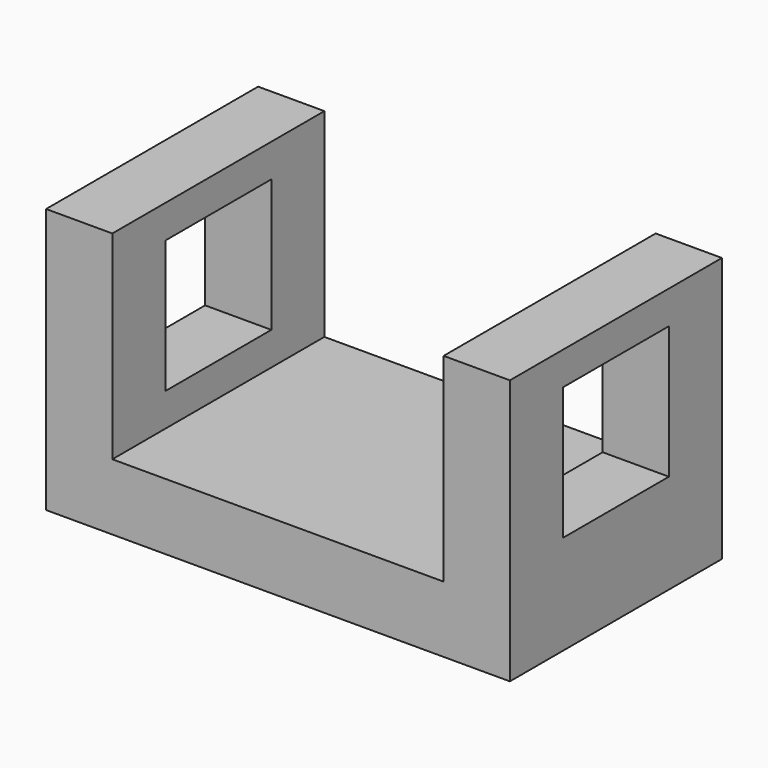
from build123d import *

# Parameters (mm, degrees)
F1_DEPTH = 50.8
F3_DEPTH = 12.7
F5_DEPTH = 12.7


with BuildPart() as f1:
    # F0 (on Front) → F1 (new body)
    with BuildSketch(Plane.XZ):
        Polygon((0, 24.168764), (-12.7, 24.168764), (-12.7, -13.931236), (-76.2, -13.931236), (-76.2, 24.168764), (-88.9, 24.168764), (-88.9, -26.631236), (0, -26.631236), align=None)
    extrude(amount=F1_DEPTH)

    # F2 (on face) → F3 (cut)
    with BuildSketch(Plane.YZ):
        Polygon((-12.7, 17.818764), (-38.1, 17.818764), (-38.1, -7.581236), (-27.879171, -7.581236), (-12.7, -7.581236), (-12.7, 5.118764), align=None)
    extrude(amount=-F3_DEPTH, mode=Mode.SUBTRACT)

    # F4 (on face) → F5 (cut)
    with BuildSketch(Plane(origin=(-88.9, 0, 0), x_dir=(0, -1, 0), z_dir=(-1, 0, 0))):
        Polygon((38.1, 17.818764), (12.7, 17.818764), (12.7, -7.581236), (25.4, -7.581236), (38.1, -7.581236), (38.1, 5.118764), align=None)
    extrude(amount=-F5_DEPTH, mode=Mode.SUBTRACT)


solid = f1.part
